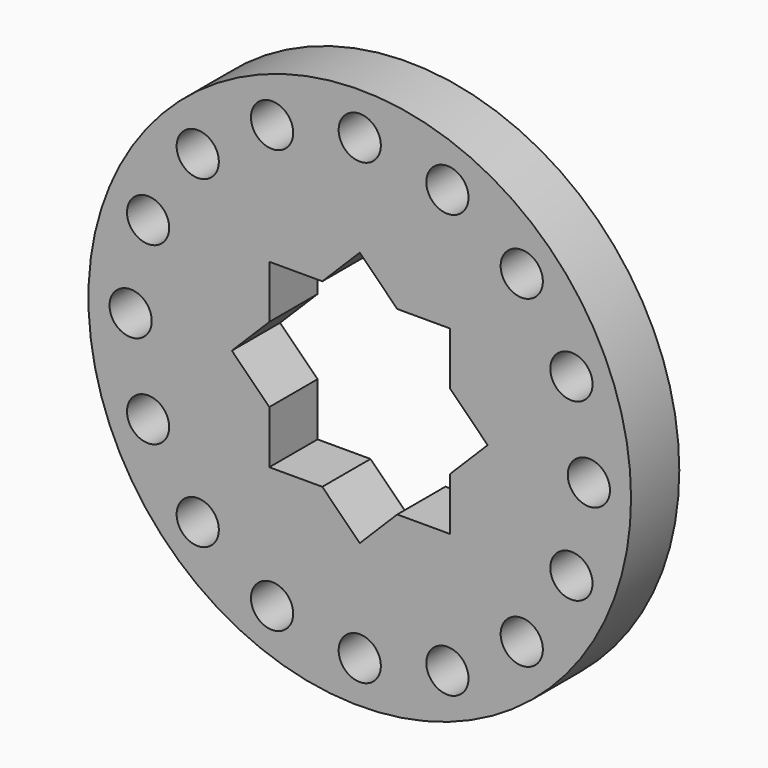
from build123d import *

# Parameters (mm, degrees)
F0_R     = 45
F0_R_2   = 3.5
F1_DEPTH = 10


with BuildPart() as f1:
    # F0 (on Front) → F1 (new body)
    with BuildSketch(Plane.XZ):
        Circle(F0_R)
        with Locations((-26.870058, -26.870058)):
            Circle(F0_R_2, mode=Mode.SUBTRACT)
        with Locations((-14.54197, -35.107422)):
            Circle(F0_R_2, mode=Mode.SUBTRACT)
        with Locations((-35.107422, -14.54197)):
            Circle(F0_R_2, mode=Mode.SUBTRACT)
        with Locations((0, -38)):
            Circle(F0_R_2, mode=Mode.SUBTRACT)
        with Locations((14.54197, -35.107422)):
            Circle(F0_R_2, mode=Mode.SUBTRACT)
        with Locations((26.870058, -26.870058)):
            Circle(F0_R_2, mode=Mode.SUBTRACT)
        with Locations((35.107422, -14.54197)):
            Circle(F0_R_2, mode=Mode.SUBTRACT)
        with Locations((-38, 0)):
            Circle(F0_R_2, mode=Mode.SUBTRACT)
        with Locations((-35.107422, 14.54197)):
            Circle(F0_R_2, mode=Mode.SUBTRACT)
        with Locations((-26.870058, 26.870058)):
            Circle(F0_R_2, mode=Mode.SUBTRACT)
        with Locations((-14.54197, 35.107422)):
            Circle(F0_R_2, mode=Mode.SUBTRACT)
        Polygon((15, 6.213203), (21.213203, 0), (15, -6.213203), (15, -15), (6.213203, -15), (0, -21.213203), (-6.213203, -15), (-15, -15), (-15, -6.213203), (-21.213203, 0), (-15, 6.213203), (-15, 15), (-6.213203, 15), (0, 21.213203), (6.213203, 15), (15, 15), align=None, mode=Mode.SUBTRACT)
        with Locations((38, 0)):
            Circle(F0_R_2, mode=Mode.SUBTRACT)
        with Locations((35.107422, 14.54197)):
            Circle(F0_R_2, mode=Mode.SUBTRACT)
        with Locations((0, 38)):
            Circle(F0_R_2, mode=Mode.SUBTRACT)
        with Locations((14.54197, 35.107422)):
            Circle(F0_R_2, mode=Mode.SUBTRACT)
        with Locations((26.870058, 26.870058)):
            Circle(F0_R_2, mode=Mode.SUBTRACT)
    extrude(amount=F1_DEPTH)


solid = f1.part
